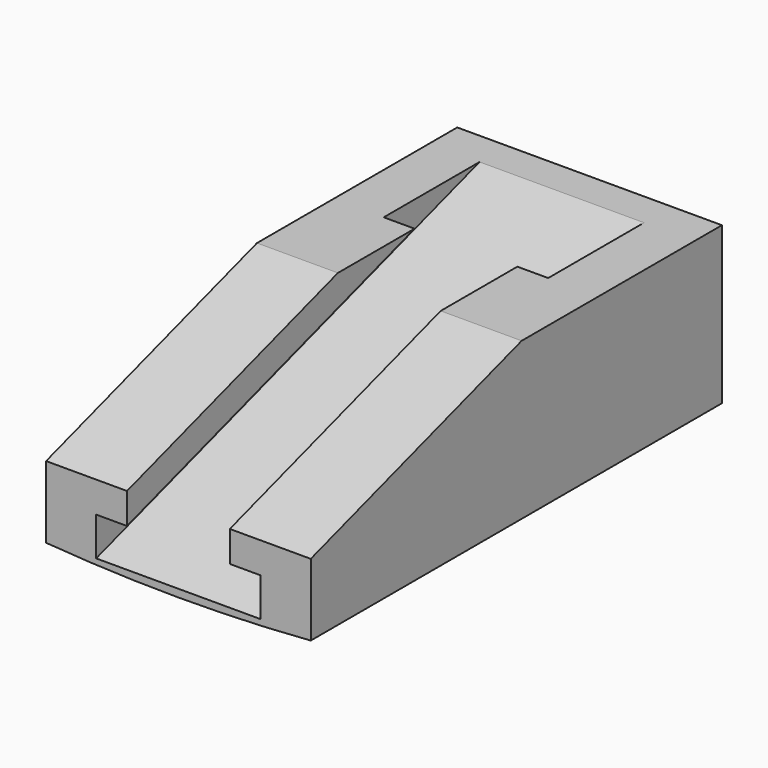
from build123d import *

# Parameters (mm, degrees)
F1_DEPTH = 51.5
F2_DEPTH = 20
F3_DEPTH = 32
F5_DEPTH = 200.001


with BuildPart() as f1:
    # F0 (on Right) → F1 (new body, symmetric)
    with BuildSketch(Plane.YZ):
        Polygon((0, 3), (0, 0), (200, 0), (200, 63), (186.486487, 63), align=None)
        Polygon((0, 18), (0, 3), (186.486487, 63), (139.864865, 63), align=None)
        Polygon((0, 30), (0, 18), (139.864865, 63), (102.567568, 63), align=None)
    extrude(amount=F1_DEPTH, both=True)

    # F0 (on Right) → F2 (cut, symmetric)
    with BuildSketch(Plane.YZ):
        Polygon((0, 30), (0, 18), (139.864865, 63), (102.567568, 63), align=None)
    extrude(amount=F2_DEPTH, both=True, mode=Mode.SUBTRACT)

    # F0 (on Right) → F3 (cut, symmetric)
    with BuildSketch(Plane.YZ):
        Polygon((0, 18), (0, 3), (186.486487, 63), (139.864865, 63), align=None)
    extrude(amount=F3_DEPTH, both=True, mode=Mode.SUBTRACT)

    # F4 (on Front) → F5 (cut, through all)
    with BuildSketch(Plane.XZ):
        with BuildLine():
            Line((-51.5, 0), (0, 0))
            ThreePointArc((0, 0), (-25.76941, 0.500188), (-51.5, 2))
            Line((-51.5, 2), (-51.5, 0))
        make_face()
        with BuildLine():
            ThreePointArc((51.5, 2), (25.76941, 0.500188), (0, 0))
            Line((0, 0), (51.5, 0))
            Line((51.5, 0), (51.5, 2))
        make_face()
    extrude(amount=-F5_DEPTH, mode=Mode.SUBTRACT)


solid = f1.part
